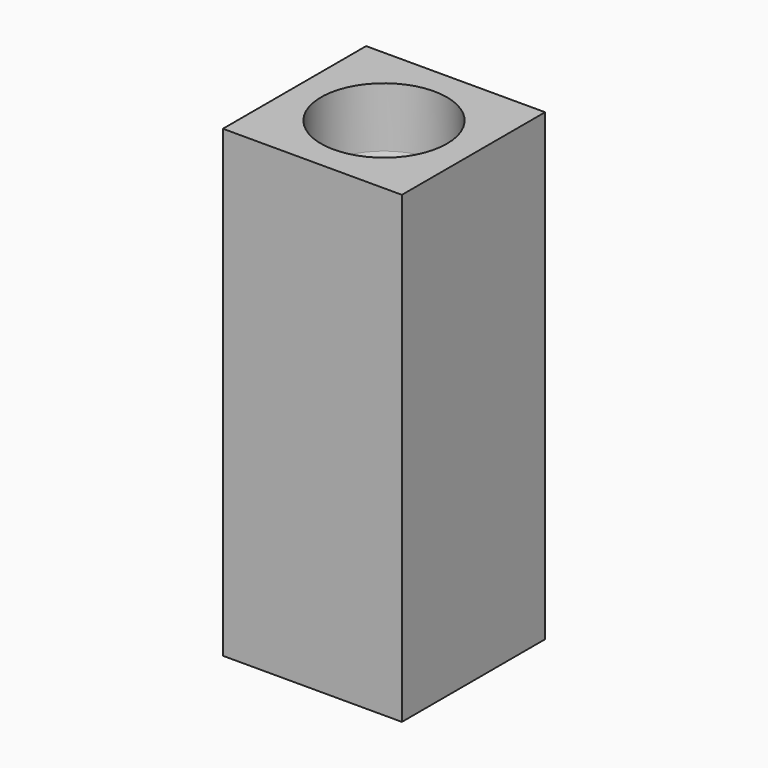
from build123d import *

# Parameters (mm, degrees)
F2_W     = 2.7
F2_H     = 2.7
F2_R     = 0.95
F3_DEPTH = 3.5


with BuildPart() as f1:
    # F0 (on Front) → F1 (revolve)
    with BuildSketch(Plane.XZ):
        with BuildLine():
            add(Edge.make_bspline(
                [(-1.35, 3.5), (-0.77, 2.566667), (-0.53, 0), (-0.77, -2.566667), (-1.35, -3.5)],
                knots=[0, 0, 0, 0, 3.569314, 7.138627, 7.138627, 7.138627, 7.138627], degree=3))
            Line((-1.35, 3.5), (-1.35, -3.5))
        make_face()
    revolve(axis=Axis((0, 0, 0), (0, 0, -1)))

    # F2 (on Top) → F3 (join, symmetric)
    with BuildSketch(Plane.XY):
        Rectangle(F2_W, F2_H)
        Circle(F2_R, mode=Mode.SUBTRACT)
    extrude(amount=F3_DEPTH, both=True)


solid = f1.part
